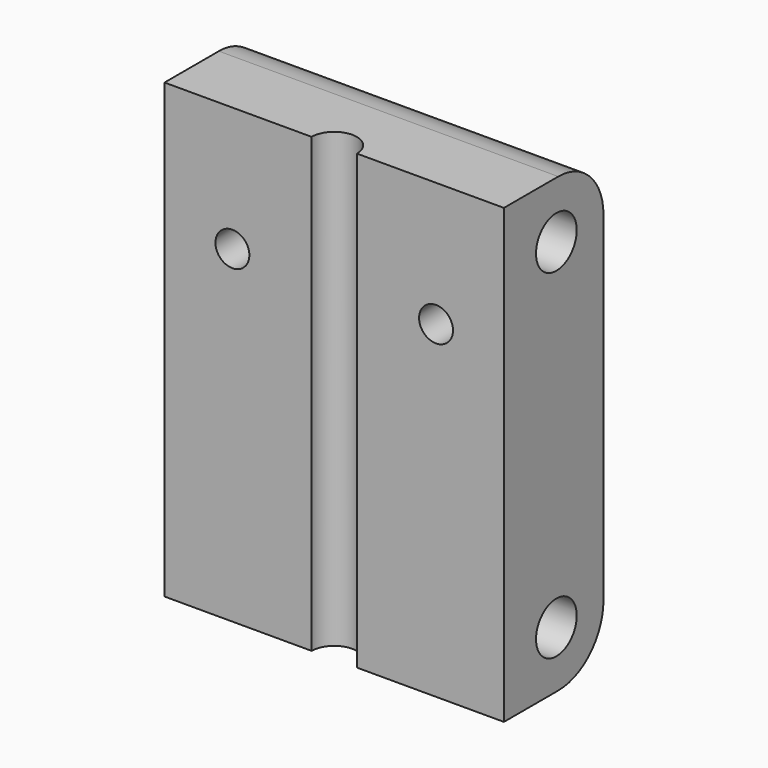
from build123d import *

# Parameters (mm, degrees)
SKETCH002_R  = 3
PAD002_DEPTH = 22
SKETCH001_R  = 4.5
PAD001_DEPTH = 60
PAD003_DEPTH = 6
PAD_DEPTH    = 80
FILLET_R     = 10


with BuildPart() as motormount:
    # Sketch002 → Pad002 (new body)
    with BuildSketch(Plane(origin=(0, 12.41006, 0), x_dir=(-1, 0, 0), z_dir=(0, 1, 0))):
        with Locations((-23.592787, 58)):
            Circle(SKETCH002_R)
        with Locations((12.407213, 58)):
            Circle(SKETCH002_R)
    extrude(amount=-PAD002_DEPTH)


with BuildPart() as framemount:
    # Sketch001 → Pad001 (new body)
    with BuildSketch(Plane.YZ.offset(35.592787)):
        with Locations((2, 70)):
            Circle(SKETCH001_R)
        with Locations((2, 10)):
            Circle(SKETCH001_R)
    extrude(amount=-PAD001_DEPTH)


with BuildPart() as cutblock:
    # Sketch003 → Pad003 (new body)
    with BuildSketch(Plane(origin=(0, 12.41006, 0), x_dir=(-1, 0, 0), z_dir=(0, 1, 0))):
        Polygon((-20.742787, 53.063655), (-17.892787, 58), (-20.742787, 62.936345), (-26.442787, 62.936345), (-29.292787, 58), (-26.442787, 53.063655), align=None)
        Polygon((15.257213, 53.063655), (18.107213, 58), (15.257213, 62.936345), (9.557213, 62.936345), (6.707213, 58), (9.557213, 53.063655), align=None)
    extrude(amount=-PAD003_DEPTH)

    # Fusion: union MotorMount, FrameMount
    add(motormount.part)
    add(framemount.part)


with BuildPart() as fillet_body:
    # Sketch → Pad (new body)
    with BuildSketch(Plane.XY):
        with BuildLine():
            Line((-24.407213, 12.41006), (35.592787, 12.41006))
            Line((35.592787, 12.41006), (35.592787, -9.58994))
            Line((9.592787, -9.58994), (35.592787, -9.58994))
            ThreePointArc((9.592787, -9.58994), (5.592787, -5.58994), (1.592787, -9.58994))
            Line((-24.407213, -9.58994), (1.592787, -9.58994))
            Line((-24.407213, -9.58994), (-24.407213, 12.41006))
        make_face()
    extrude(amount=PAD_DEPTH)

    # Cut: cut CutBlock
    add(cutblock.part, mode=Mode.SUBTRACT)

    # Fillet
    fillet_edges = [fillet_body.edges().sort_by_distance(p)[0] for p in [
        (5.592787, 12.41006, 80),
        (5.592787, 12.41006, 0),
    ]]
    fillet(fillet_edges, radius=FILLET_R)


solid = fillet_body.part
